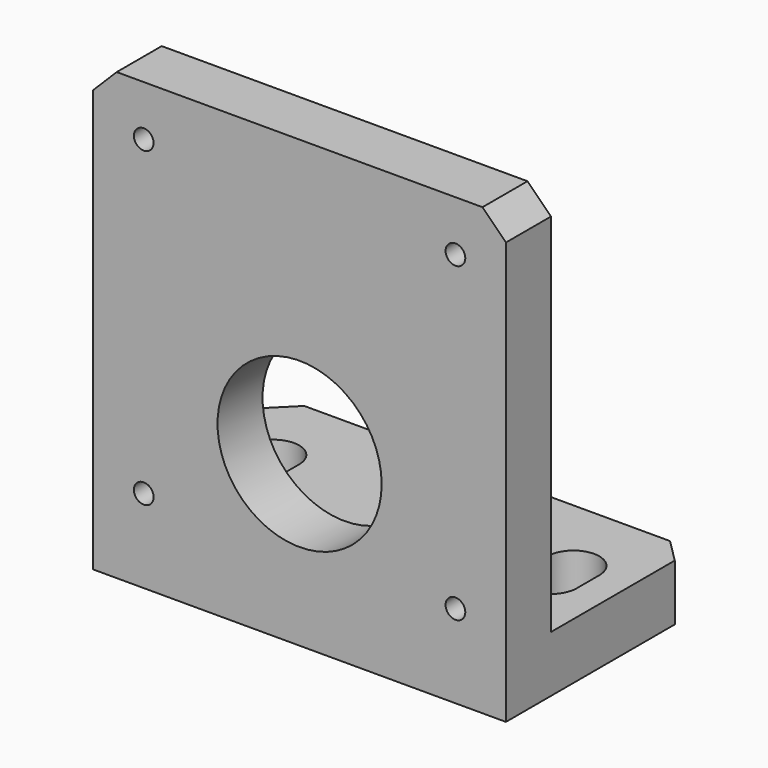
from build123d import *

# Parameters (mm, degrees)
F0_W     = 88
F0_H     = 95
F0_R     = 17.5
F1_DEPTH = 12
F2_W     = 88
F2_H     = 12
F3_DEPTH = 38
F5_DEPTH = 12
F7_D     = 4.2
F7_DEPTH = 12
F7_TIP   = 1.2618073
F8_SIZE  = 5


with BuildPart() as f1:
    # F0 (on Front) → F1 (new body)
    with BuildSketch(Plane.XZ):
        with Locations((0, 47.5)):
            Rectangle(F0_W, F0_H)
        with Locations((0, 36)):
            Circle(F0_R, mode=Mode.SUBTRACT)
    extrude(amount=F1_DEPTH)

    # F2 (on face) → F3 (join)
    with BuildSketch(Plane(origin=(0, 0, 0), x_dir=(-1, 0, 0), z_dir=(0, 1, 0))):
        with Locations((0, 6)):
            Rectangle(F2_W, F2_H)
    extrude(amount=F3_DEPTH)

    # F4 (on face) → F5 (cut, through all)
    with BuildSketch(Plane.XY.offset(12)):
        with BuildLine():
            ThreePointArc((26.5, 15), (32, 9.5), (37.5, 15))
            Line((37.5, 15), (37.5, 21))
            ThreePointArc((37.5, 21), (32, 26.5), (26.5, 21))
            Line((26.5, 21), (26.5, 15))
        make_face()
        with BuildLine():
            ThreePointArc((-37.5, 15), (-32, 9.5), (-26.5, 15))
            Line((-26.5, 15), (-26.5, 21))
            ThreePointArc((-26.5, 21), (-32, 26.5), (-37.5, 21))
            Line((-37.5, 21), (-37.5, 15))
        make_face()
    extrude(amount=-F5_DEPTH, mode=Mode.SUBTRACT)

    # F7
    with Locations(Plane.XZ.offset(12)):
        with Locations((-33.2340187158, 84.2340187158), (33.2340187158, 84.2340187158), (33.2340187158, 17.7659812842), (-33.2340187158, 17.7659812842)):
            Hole(F7_D / 2, depth=F7_DEPTH)
            with Locations((0, 0, -(F7_DEPTH + F7_TIP / 2))):  # 118° drill point
                Cone(0, F7_D / 2, F7_TIP, mode=Mode.SUBTRACT)

    # F8
    f8_edges = [f1.edges().sort_by_distance(p)[0] for p in [
        (-44, -6, 95),
        (44, -6, 95),
        (-44, 38, 6),
        (44, 38, 6),
    ]]
    chamfer(f8_edges, length=F8_SIZE)


solid = f1.part
